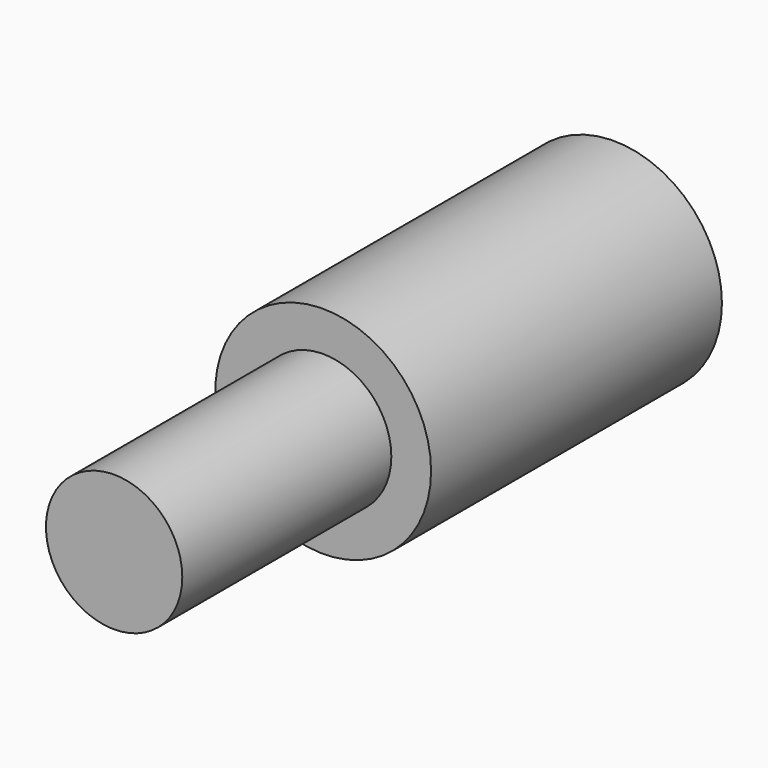
from build123d import *

# Parameters (mm, degrees)
SKETCH013_R     = 9.5
PAD011_DEPTH    = 32
SKETCH014_R     = 4
POCKET002_DEPTH = 30
SKETCH015_R     = 6
PAD012_DEPTH    = 23


with BuildPart() as part:
    # Sketch013 → Pad011 (new body)
    with BuildSketch(Plane.XZ):
        Circle(SKETCH013_R)
    extrude(amount=PAD011_DEPTH)

    # Sketch014 (on Face2 of Pad011) → Pocket002 (cut)
    with BuildSketch(Plane(origin=(0, 0, 0), x_dir=(1, 0, 0), z_dir=(0, 1, 0))):
        Circle(SKETCH014_R)
    extrude(amount=-POCKET002_DEPTH, mode=Mode.SUBTRACT)

    # Sketch015 (on Face3 of Pocket002) → Pad012 (new body)
    with BuildSketch(Plane.XZ.offset(32)):
        Circle(SKETCH015_R)
    extrude(amount=PAD012_DEPTH)


solid = part.part
